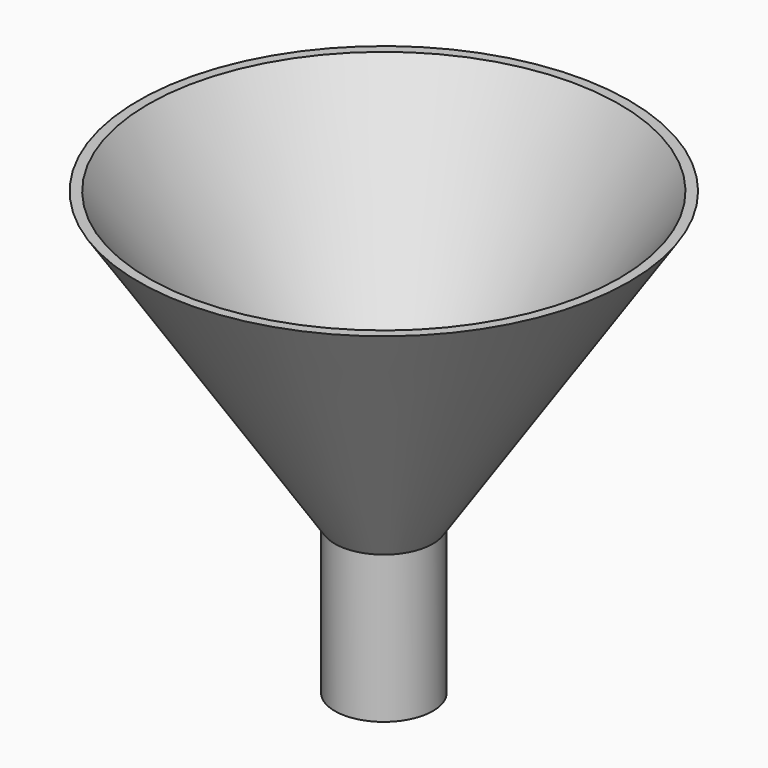
from build123d import *

# Parameters (mm, degrees)
CYLINDER001_R     = 4
CYLINDER001_DEPTH = 15
CYLINDER_R        = 5
CYLINDER_DEPTH    = 15


with BuildPart() as con001:
    # Cone001 → Cone001 (revolve)
    with BuildSketch(Plane(origin=(0, 0, 15), x_dir=(1, 0, 0), z_dir=(0, -1, 0))):
        Polygon((0, 0), (4, 0), (24, 30), (0, 30), align=None)
    revolve(axis=Axis((0, 0, 15), (0, 0, 1)))


with BuildPart() as cut001:
    # Cone → Cone (revolve)
    with BuildSketch(Plane(origin=(0, 0, 15), x_dir=(1, 0, 0), z_dir=(0, -1, 0))):
        Polygon((0, 0), (5, 0), (25, 30), (0, 30), align=None)
    revolve(axis=Axis((0, 0, 15), (0, 0, 1)))

    # Cut001: cut Con001
    add(con001.part, mode=Mode.SUBTRACT)


with BuildPart() as cilindre001:
    # Cylinder001 → Cylinder001 (new body)
    with BuildSketch(Plane.XY):
        Circle(CYLINDER001_R)
    extrude(amount=CYLINDER001_DEPTH)


with BuildPart() as fusion:
    # Cylinder → Cylinder (new body)
    with BuildSketch(Plane.XY):
        Circle(CYLINDER_R)
    extrude(amount=CYLINDER_DEPTH)

    # Cut: cut Cilindre001
    add(cilindre001.part, mode=Mode.SUBTRACT)

    # Fusion: union Cut001
    add(cut001.part)


solid = fusion.part
